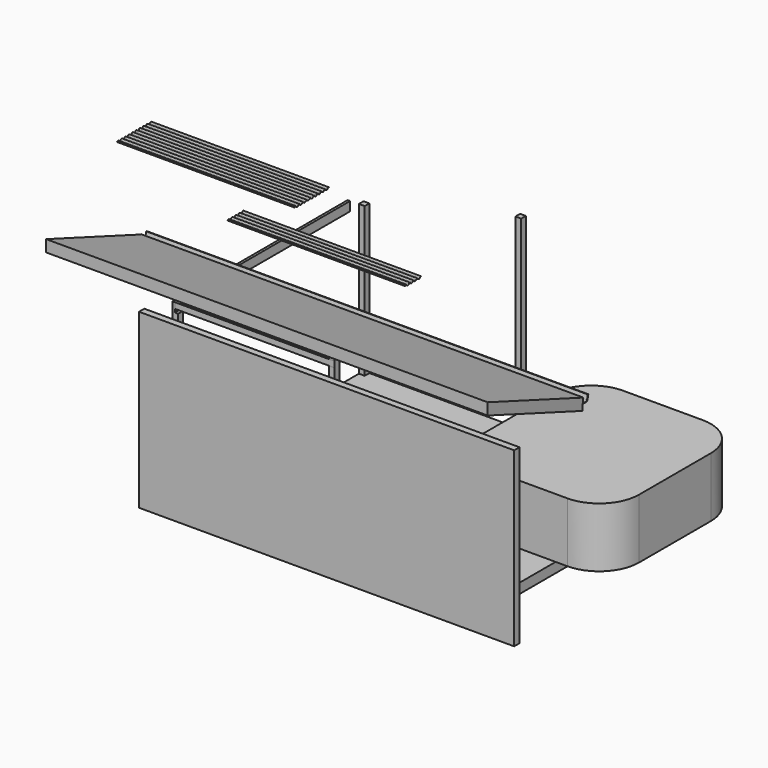
from build123d import *

# Parameters (mm, degrees)
F0_W           = 4876.8
F0_H           = 3657.6
F1_DEPTH       = 152.4
F2_W           = 88.9
F2_H           = 88.9
F3_DEPTH       = 2286
F4_W           = 88.9
F4_H           = 88.9
F5_DEPTH       = 2895.6
F6_W           = 38.1
F6_H           = 3352.8
F7_DEPTH       = 139.7
F9_DEPTH       = 2717.8
F10_W          = 38.1
F10_H          = 88.9
F11_DEPTH      = 2438.4
F12_W          = 38.1
F12_H          = 88.9
F13_DEPTH      = 571.5
F14_W          = 38.1
F14_H          = 88.9
F15_DEPTH      = 228.6
F17_DEPTH      = 2717.8
F18_W          = 4876.8
F18_H          = 152.4
F19_DEPTH      = 101.6
F21_DEPTH      = 6350
F21_DEPTH_BACK = 406.4
F23_DEPTH      = 6756.4
F24_W          = 1219.2
F24_H          = 304.8
F25_DEPTH      = 152.4
F27_DEPTH      = 914.4


with BuildPart() as f1:
    # F0 (on Top) → F1 (new body)
    with BuildSketch(Plane.XY):
        with Locations((40.524546057, 645.0639482791)):
            Rectangle(F0_W, F0_H)
    extrude(amount=F1_DEPTH)

    # F24 (on face) → F25 (cut, through all)
    with BuildSketch(Plane.XY.offset(152.4)):
        with Locations((1869.324546057, 2321.4639482791)):
            Rectangle(F24_W, F24_H)
    extrude(amount=-F25_DEPTH, mode=Mode.SUBTRACT)


with BuildPart() as f3:
    # F2 (on face) → F3 (new body)
    with BuildSketch(Plane.XY.offset(152.4)):
        with Locations((-2353.425453943, -1139.2860517209)):
            Rectangle(F2_W, F2_H)
    extrude(amount=F3_DEPTH)


with BuildPart() as f3b:
    # F2 (on face) → F3, piece 2 (new body)
    with BuildSketch(Plane.XY.offset(152.4)):
        with Locations((-2353.425453943, 2429.4139482791)):
            Rectangle(F2_W, F2_H)
    extrude(amount=F3_DEPTH)


with BuildPart() as f5:
    # F4 (on face) → F5 (new body)
    with BuildSketch(Plane.XY.offset(152.4)):
        with Locations((40.524546057, -1139.2860517209)):
            Rectangle(F4_W, F4_H)
    extrude(amount=F5_DEPTH)


with BuildPart() as f5b:
    # F4 (on face) → F5, piece 2 (new body)
    with BuildSketch(Plane.XY.offset(152.4)):
        with Locations((40.524546057, 2429.4139482791)):
            Rectangle(F4_W, F4_H)
    extrude(amount=F5_DEPTH)


with BuildPart() as f7:
    # F6 (on face) → F7 (new body)
    with BuildSketch(Plane.XY.offset(2438.4)):
        with Locations((-2378.825453943, 492.6639482791)):
            Rectangle(F6_W, F6_H)
    extrude(amount=F7_DEPTH)


with BuildPart() as f9:
    # F8 (on face) → F9 (new body)
    with BuildSketch(Plane(origin=(-2397.875453943, 0, 0), x_dir=(0, -1, 0), z_dir=(-1, 0, 0))):
        with BuildLine():
            ThreePointArc((-1680.0708060009, 2888.1778440665), (-1697.5333060009, 2878.2483923556), (-1714.9958060009, 2888.1778440665))
            ThreePointArc((-1714.9958060009, 2888.1778440665), (-1732.4583060009, 2898.1072957773), (-1749.9208060009, 2888.1778440665))
            ThreePointArc((-1749.9208060009, 2888.1778440665), (-1767.3833060009, 2878.2483923556), (-1784.8458060009, 2888.1778440665))
            ThreePointArc((-1784.8458060009, 2888.1778440665), (-1802.6686367047, 2898.1041006881), (-1820.1282730436, 2887.5520883812))
            Line((-1820.1282730436, 2887.5520883812), (-1819.0145251034, 2886.9417888435))
            ThreePointArc((-1819.0145251034, 2886.9417888435), (-1802.6461160357, 2896.8343003812), (-1785.9372122509, 2887.5284347984))
            ThreePointArc((-1785.9372122509, 2887.5284347984), (-1767.3833060009, 2876.9783923556), (-1748.8293997509, 2887.5284347984))
            ThreePointArc((-1748.8293997509, 2887.5284347984), (-1732.4583060009, 2896.8372957773), (-1716.0872122509, 2887.5284347984))
            ThreePointArc((-1716.0872122509, 2887.5284347984), (-1697.5333060009, 2876.9783923556), (-1678.9793997509, 2887.5284347984))
            ThreePointArc((-1678.9793997509, 2887.5284347984), (-1662.6083060009, 2896.8372957773), (-1646.2372122509, 2887.5284347984))
            ThreePointArc((-1646.2372122509, 2887.5284347984), (-1627.6833060009, 2876.9783923556), (-1609.1293997509, 2887.5284347984))
            ThreePointArc((-1609.1293997509, 2887.5284347984), (-1592.7583060009, 2896.8372957773), (-1576.3872122509, 2887.5284347984))
            ThreePointArc((-1576.3872122509, 2887.5284347984), (-1557.8333060009, 2876.9783923556), (-1539.2793997509, 2887.5284347984))
            ThreePointArc((-1539.2793997509, 2887.5284347984), (-1522.9083060009, 2896.8372957773), (-1506.5372122509, 2887.5284347984))
            ThreePointArc((-1506.5372122509, 2887.5284347984), (-1487.9833060009, 2876.9783923556), (-1469.4293997509, 2887.5284347984))
            ThreePointArc((-1469.4293997509, 2887.5284347984), (-1453.0583060009, 2896.8372957773), (-1436.6872122509, 2887.5284347984))
            ThreePointArc((-1436.6872122509, 2887.5284347984), (-1418.1333060009, 2876.9783923556), (-1399.5793997509, 2887.5284347984))
            ThreePointArc((-1399.5793997509, 2887.5284347984), (-1383.2083060009, 2896.8372957773), (-1366.8372122509, 2887.5284347984))
            ThreePointArc((-1366.8372122509, 2887.5284347984), (-1348.2833060009, 2876.9783923556), (-1329.7293997509, 2887.5284347984))
            ThreePointArc((-1329.7293997509, 2887.5284347984), (-1313.3583060009, 2896.8372957773), (-1296.9872122509, 2887.5284347984))
            ThreePointArc((-1296.9872122509, 2887.5284347984), (-1278.4333060009, 2876.9783923556), (-1259.8793997509, 2887.5284347984))
            ThreePointArc((-1259.8793997509, 2887.5284347984), (-1243.5083060009, 2896.8372957773), (-1227.1372122509, 2887.5284347984))
            ThreePointArc((-1227.1372122509, 2887.5284347984), (-1208.5833060009, 2876.9783923556), (-1190.0293997509, 2887.5284347984))
            ThreePointArc((-1190.0293997509, 2887.5284347984), (-1173.6583060009, 2896.8372957773), (-1157.2872122509, 2887.5284347984))
            Line((-1157.2872122509, 2887.5284347984), (-1156.1958060009, 2888.1778440665))
            ThreePointArc((-1156.1958060009, 2888.1778440665), (-1173.6583060009, 2898.1072957773), (-1191.1208060009, 2888.1778440665))
            ThreePointArc((-1191.1208060009, 2888.1778440665), (-1208.5833060009, 2878.2483923556), (-1226.0458060009, 2888.1778440665))
            ThreePointArc((-1226.0458060009, 2888.1778440665), (-1243.5083060009, 2898.1072957773), (-1260.9708060009, 2888.1778440665))
            ThreePointArc((-1260.9708060009, 2888.1778440665), (-1278.4333060009, 2878.2483923556), (-1295.8958060009, 2888.1778440665))
            ThreePointArc((-1295.8958060009, 2888.1778440665), (-1313.3583060009, 2898.1072957773), (-1330.8208060009, 2888.1778440665))
            ThreePointArc((-1330.8208060009, 2888.1778440665), (-1348.2833060009, 2878.2483923556), (-1365.7458060009, 2888.1778440665))
            ThreePointArc((-1365.7458060009, 2888.1778440665), (-1383.2083060009, 2898.1072957773), (-1400.6708060009, 2888.1778440665))
            ThreePointArc((-1400.6708060009, 2888.1778440665), (-1418.1333060009, 2878.2483923556), (-1435.5958060009, 2888.1778440665))
            ThreePointArc((-1435.5958060009, 2888.1778440665), (-1453.0583060009, 2898.1072957773), (-1470.5208060009, 2888.1778440665))
            ThreePointArc((-1470.5208060009, 2888.1778440665), (-1487.9833060009, 2878.2483923556), (-1505.4458060009, 2888.1778440665))
            ThreePointArc((-1505.4458060009, 2888.1778440665), (-1522.9083060009, 2898.1072957773), (-1540.3708060009, 2888.1778440665))
            ThreePointArc((-1540.3708060009, 2888.1778440665), (-1557.8333060009, 2878.2483923556), (-1575.2958060009, 2888.1778440665))
            ThreePointArc((-1575.2958060009, 2888.1778440665), (-1592.7583060009, 2898.1072957773), (-1610.2208060009, 2888.1778440665))
            ThreePointArc((-1610.2208060009, 2888.1778440665), (-1627.6833060009, 2878.2483923556), (-1645.1458060009, 2888.1778440665))
            ThreePointArc((-1645.1458060009, 2888.1778440665), (-1662.6083060009, 2898.1072957773), (-1680.0708060009, 2888.1778440665))
        make_face()
    extrude(amount=F9_DEPTH)


with BuildPart() as f11:
    # F10 (on face) → F11 (new body)
    with BuildSketch(Plane.YZ.offset(-2359.775453943)):
        with Locations((-1164.6860517209, 2533.65)):
            Rectangle(F10_W, F10_H)
    extrude(amount=F11_DEPTH)


with BuildPart() as f13:
    # F12 (on face) → F13 (new body)
    with BuildSketch(Plane(origin=(0, -1145.6360517209, 0), x_dir=(-1, 0, 0), z_dir=(0, 1, 0))):
        with Locations((2340.725453943, 2533.65)):
            Rectangle(F12_W, F12_H)
    extrude(amount=F13_DEPTH)


with BuildPart() as f15:
    # F14 (on face) → F15 (new body)
    with BuildSketch(Plane(origin=(0, -574.1360517209, 0), x_dir=(-1, 0, 0), z_dir=(0, 1, 0))):
        with Locations((2340.725453943, 2533.65)):
            Rectangle(F14_W, F14_H)
    extrude(amount=F15_DEPTH)


with BuildPart() as f17:
    # F16 (on face) → F17 (new body)
    with BuildSketch(Plane.YZ.offset(-2359.775453943)):
        with BuildLine():
            ThreePointArc((-35.5969201576, 3268.4593042088), (-53.0594201576, 3258.5298524979), (-70.5219201576, 3268.4593042088))
            ThreePointArc((-70.5219201576, 3268.4593042088), (-87.9844201576, 3278.3887559196), (-105.4469201576, 3268.4593042088))
            ThreePointArc((-105.4469201576, 3268.4593042088), (-122.9094201576, 3258.5298524979), (-140.3719201576, 3268.4593042088))
            ThreePointArc((-140.3719201576, 3268.4593042088), (-158.1947508613, 3278.3855608304), (-175.6543872003, 3267.8335485235))
            Line((-175.6543872003, 3267.8335485235), (-174.5406392601, 3267.2232489858))
            ThreePointArc((-174.5406392601, 3267.2232489858), (-158.1722301923, 3277.1157605235), (-141.4633264076, 3267.8098949407))
            ThreePointArc((-141.4633264076, 3267.8098949407), (-122.9094201576, 3257.2598524979), (-104.3555139076, 3267.8098949407))
            ThreePointArc((-104.3555139076, 3267.8098949407), (-87.9844201576, 3277.1187559196), (-71.6133264076, 3267.8098949407))
            ThreePointArc((-71.6133264076, 3267.8098949407), (-53.0594201576, 3257.2598524979), (-34.5055139076, 3267.8098949407))
            ThreePointArc((-34.5055139076, 3267.8098949407), (-18.1344201576, 3277.1187559196), (-1.7633264076, 3267.8098949407))
            ThreePointArc((-1.7633264076, 3267.8098949407), (16.7905798424, 3257.2598524979), (35.3444860924, 3267.8098949407))
            ThreePointArc((35.3444860924, 3267.8098949407), (51.7155798424, 3277.1187559196), (68.0866735924, 3267.8098949407))
            ThreePointArc((68.0866735924, 3267.8098949407), (86.6405798424, 3257.2598524979), (105.1944860924, 3267.8098949407))
            ThreePointArc((105.1944860924, 3267.8098949407), (121.5655798424, 3277.1187559196), (137.9366735924, 3267.8098949407))
            Line((137.9366735924, 3267.8098949407), (139.0280798424, 3268.4593042088))
            ThreePointArc((139.0280798424, 3268.4593042088), (121.5655798424, 3278.3887559196), (104.1030798424, 3268.4593042088))
            ThreePointArc((104.1030798424, 3268.4593042088), (86.6405798424, 3258.5298524979), (69.1780798424, 3268.4593042088))
            ThreePointArc((69.1780798424, 3268.4593042088), (51.7155798424, 3278.3887559196), (34.2530798424, 3268.4593042088))
            ThreePointArc((34.2530798424, 3268.4593042088), (16.7905798424, 3258.5298524979), (-0.6719201576, 3268.4593042088))
            ThreePointArc((-0.6719201576, 3268.4593042088), (-18.1344201576, 3278.3887559196), (-35.5969201576, 3268.4593042088))
        make_face()
    extrude(amount=F17_DEPTH)


with BuildPart() as f19:
    # F18 (on face) → F19 (new body)
    with BuildSketch(Plane.XZ.offset(1183.7360517209)):
        Polygon((-2826.1299133301, -301.1376261711), (-2397.875453943, -301.1376261711), (2913.280248642, -301.1376261711), (2913.280248642, 2339.0715122223), (-2826.1299133301, 2339.0715122223), align=None)
        with Locations((40.524546057, 76.2)):
            Rectangle(F18_W, F18_H, mode=Mode.SUBTRACT)
        with Locations((40.524546057, 76.2)):
            Rectangle(F18_W, F18_H)
    extrude(amount=F19_DEPTH)


with BuildPart() as f21:
    # F20 (on face) → F21 (new body, two sides)
    with BuildSketch(Plane.YZ.offset(2913.280248642)) as f21_sk:
        Polygon((-2299.2925643921, 3530.6117534637), (-2299.2925643921, 3351.644621991), (-489.1478717327, 2678.4132586945), (-489.1478717327, 2857.3803901672), align=None)
    extrude(amount=-F21_DEPTH)
    extrude(f21_sk.sketch, amount=F21_DEPTH_BACK)


with BuildPart() as f23:
    # F22 (on face) → F23 (new body)
    with BuildSketch(Plane.YZ.offset(3319.680248642)):
        with BuildLine():
            Line((-489.1478717327, 2857.3803901672), (-489.1478717327, 2791.5726020309))
            ThreePointArc((-489.1478717327, 2791.5726020309), (-482.2133970235, 2774.8312991401), (-465.4720941327, 2767.8968244309))
            Line((-465.4720941327, 2767.8968244309), (-416.1413972531, 2767.8968244309))
            ThreePointArc((-416.1413972531, 2767.8968244309), (-400.3673780608, 2773.4584537935), (-391.5698037938, 2787.6835755738))
            Line((-391.5698037938, 2787.6835755738), (-376.3566911221, 2857.3803901672))
            Line((-376.3566911221, 2857.3803901672), (-384.6609890461, 2857.3803901672))
            Line((-384.6609890461, 2857.3803901672), (-399.4964430989, 2789.4137673704))
            ThreePointArc((-399.4964430989, 2789.4137673704), (-406.3630223646, 2779.0956845196), (-418.404655803, 2776.1610961909))
            Line((-418.404655803, 2776.1610961909), (-465.5634768178, 2776.4459914535))
            ThreePointArc((-465.5634768178, 2776.4459914535), (-475.6320688571, 2780.3655679918), (-480.5172955356, 2790.0026934031))
            Line((-480.5172955356, 2790.0026934031), (-480.5172955356, 2857.3803901672))
            Line((-480.5172955356, 2857.3803901672), (-489.1478717327, 2857.3803901672))
        make_face()
    extrude(amount=-F23_DEPTH)


with BuildPart() as f27:
    # F26 (on face) → F27 (new body)
    with BuildSketch(Plane.XY.offset(152.4)):
        with BuildLine():
            Line((2658.3857553549, 2641.0456885958), (1438.0866202746, 2641.0456885958))
            ThreePointArc((1438.0866202746, 2641.0456885958), (1212.3500604343, 2597.7099074473), (1018.7082189485, 2473.8639482791))
            Line((1018.7082189485, 2473.8639482791), (1259.724546057, 2473.8639482791))
            Line((1259.724546057, 2473.8639482791), (1259.724546057, 2169.0639482791))
            Line((1259.724546057, 2169.0639482791), (2478.924546057, 2169.0639482791))
            Line((2478.924546057, 2169.0639482791), (2478.924546057, 50.2456885958))
            Line((2478.924546057, 50.2456885958), (2658.3857553549, 50.2456885958))
            ThreePointArc((2658.3857553549, 50.2456885958), (3089.4380491662, 228.7933947845), (3267.9857553549, 659.8456885958))
            Line((3267.9857553549, 659.8456885958), (3267.9857553549, 2031.4456885958))
            ThreePointArc((3267.9857553549, 2031.4456885958), (3089.4380491662, 2462.4979824071), (2658.3857553549, 2641.0456885958))
        make_face()
        with BuildLine():
            Line((1259.724546057, 2473.8639482791), (1018.7082189485, 2473.8639482791))
            ThreePointArc((1018.7082189485, 2473.8639482791), (878.2749995839, 2272.740341126), (828.4876129568, 2032.5458145685))
            Line((828.4876129568, 2032.5458145685), (826.0123254875, 660.9458145685))
            ThreePointArc((826.0123254875, 660.9458145685), (1004.170261051, 229.1825236937), (1435.6113328052, 50.2456885958))
            Line((1435.6113328052, 50.2456885958), (2478.924546057, 50.2456885958))
            Line((2478.924546057, 50.2456885958), (2478.924546057, 2169.0639482791))
            Line((2478.924546057, 2169.0639482791), (1259.724546057, 2169.0639482791))
            Line((1259.724546057, 2169.0639482791), (1259.724546057, 2473.8639482791))
        make_face()
    extrude(amount=F27_DEPTH)


solid = Compound([f1.part, f3.part, f3b.part, f5.part, f5b.part, f7.part, f9.part, f11.part, f13.part, f15.part, f17.part, f19.part, f21.part, f23.part, f27.part])
